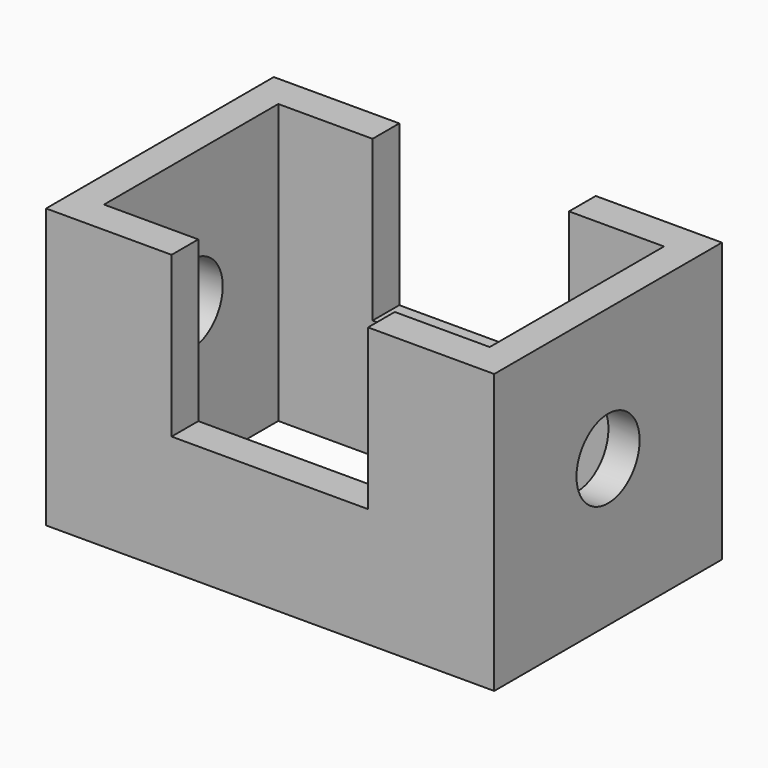
from build123d import *

# Parameters (mm, degrees)
F1_W     = 130.1261633635
F1_H     = 82.6476961374
F1_W_2   = 112.0021492243
F1_H_2   = 63.2450655103
F2_DEPTH = 81.026
F3_W     = 57.0448189974
F3_H     = 46.4622946749
F4_DEPTH = 105.156
F5_R     = 11.4594947591
F6_DEPTH = 164.338


with BuildPart() as f2:
    # F1 (on face) → F2 (new body)
    with BuildSketch(Plane.XY):
        Rectangle(F1_W, F1_H)
        Rectangle(F1_W_2, F1_H_2, mode=Mode.SUBTRACT)
    extrude(amount=F2_DEPTH)

    # F3 (on face) → F4 (cut)
    with BuildSketch(Plane(origin=(0, 41.3238480687, 0), x_dir=(-1, 0, 0), z_dir=(0, 1, 0))):
        with Locations((0.1007858664, 57.7948526626)):
            Rectangle(F3_W, F3_H)
    extrude(amount=-F4_DEPTH, mode=Mode.SUBTRACT)

    # F5 (on face) → F6 (cut)
    with BuildSketch(Plane(origin=(-65.0630816817, 0, 0), x_dir=(0, -1, 0), z_dir=(-1, 0, 0))):
        with Locations((0, 42.6265746355)):
            Circle(F5_R)
    extrude(amount=-F6_DEPTH, mode=Mode.SUBTRACT)


solid = f2.part
